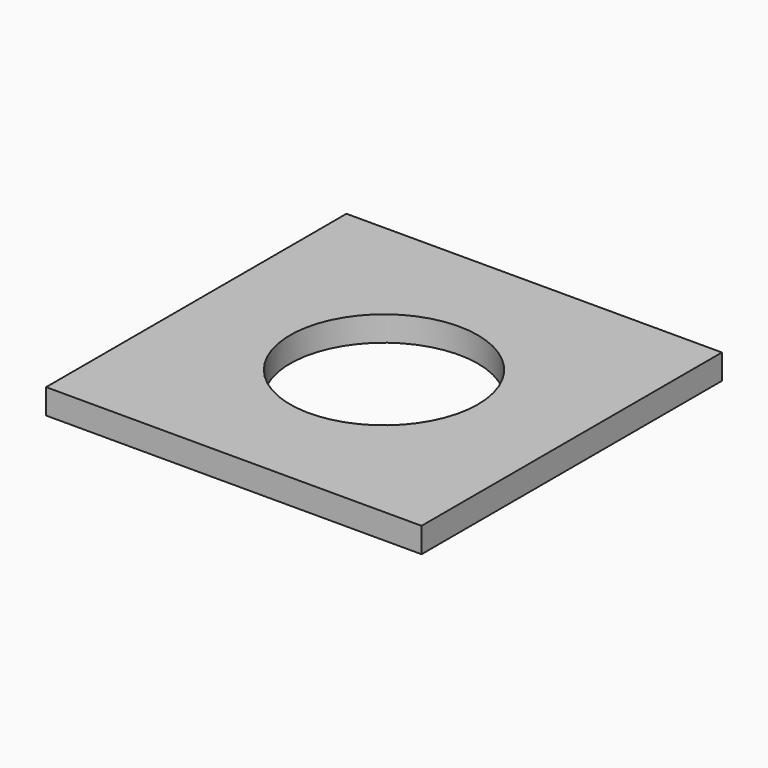
from build123d import *

# Parameters (mm, degrees)
F0_W     = 300
F0_H     = 300
F2_DEPTH = 20
F1_R     = 75
F3_DEPTH = 20.001


with BuildPart() as f2:
    # F0 (on Top) → F2 (new body)
    with BuildSketch(Plane.XY):
        with Locations((-150, 121.918764)):
            Rectangle(F0_W, F0_H)
    extrude(amount=F2_DEPTH)

    # F1 (on face) → F3 (cut, through all)
    with BuildSketch(Plane.XY):
        with Locations((-150, 121.918764)):
            Circle(F1_R)
    extrude(amount=F3_DEPTH, mode=Mode.SUBTRACT)


solid = f2.part
